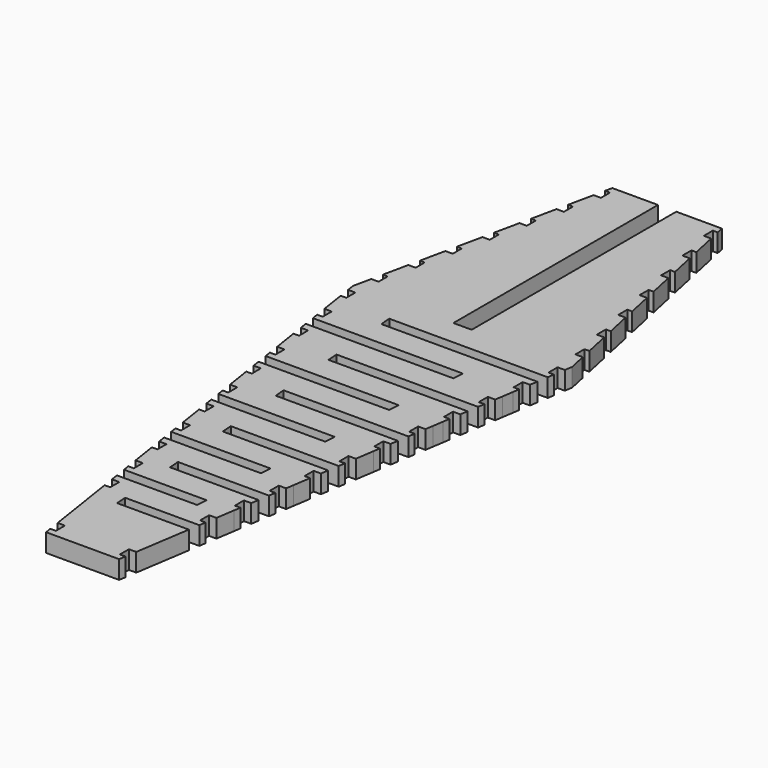
from build123d import *

# Parameters (mm, degrees)
F1_DEPTH = 5


with BuildPart() as f1:
    # F0 (on Top) → F1 (new body)
    with BuildSketch(Plane.XY):
        Polygon((-2.5, 100), (-15, 100), (-15.417857, 98.05), (-14.081429, 98.05), (-14.081429, 94.95), (-16.082143, 94.95), (-17.560715, 88.05), (-16.224286, 88.05), (-16.224286, 84.95), (-18.225, 84.95), (-19.703572, 78.05), (-18.367143, 78.05), (-18.367143, 74.95), (-20.367857, 74.95), (-21.846429, 68.05), (-20.51, 68.05), (-20.51, 64.95), (-22.510715, 64.95), (-23.989286, 58.05), (-22.652857, 58.05), (-22.652857, 54.95), (-24.653572, 54.95), (-26.132143, 48.05), (-24.795715, 48.05), (-24.795715, 44.95), (-26.796429, 44.95), (-28.275, 38.05), (-26.938572, 38.05), (-26.938572, 34.95), (-28.939286, 34.95), (-30, 30), (-29.678325, 27.909113), (-27.678325, 27.909113), (-27.678325, 24.809113), (-29.201402, 24.809113), (-28.139864, 17.909113), (-26.139864, 17.909113), (-26.139864, 14.809113), (-27.662941, 14.809113), (-27.384616, 13), (13.692307, 13), (13.461538, 10), (-26.923077, 10), (-26.601402, 7.909113), (-24.601402, 7.909113), (-24.601402, 4.809113), (-26.124479, 4.809113), (-25.062941, -2.090887), (-23.062941, -2.090887), (-23.062941, -5.190887), (-24.586018, -5.190887), (-24.307693, -7), (12.153846, -7), (11.923077, -10), (-23.846154, -10), (-23.524479, -12.090887), (-21.524479, -12.090887), (-21.524479, -15.190887), (-23.047556, -15.190887), (-21.986018, -22.090887), (-19.986018, -22.090887), (-19.986018, -25.190887), (-21.509094, -25.190887), (-21.230769, -27), (10.615384, -27), (10.384615, -30), (-20.769231, -30), (-20.447556, -32.090887), (-18.447556, -32.090887), (-18.447556, -35.190887), (-19.970633, -35.190887), (-18.909094, -42.090887), (-16.909094, -42.090887), (-16.909094, -45.190887), (-18.432171, -45.190887), (-18.153846, -47), (9.076923, -47), (8.846154, -50), (-17.692308, -50), (-17.370633, -52.090887), (-15.370633, -52.090887), (-15.370633, -55.190887), (-16.89371, -55.190887), (-15.832171, -62.090887), (-13.832171, -62.090887), (-13.832171, -65.190887), (-15.355248, -65.190887), (-15.076923, -67), (7.538461, -67), (7.307692, -70), (-14.615385, -70), (-14.29371, -72.090887), (-12.29371, -72.090887), (-12.29371, -75.190887), (-13.816787, -75.190887), (-10.755248, -95.090887), (-8.755248, -95.090887), (-8.755248, -98.190887), (-10.278325, -98.190887), (-10, -100), (0, -100), (10, -100), (10.278325, -98.190887), (8.755248, -98.190887), (8.755248, -95.090887), (10.755248, -95.090887), (13.076923, -80), (-6.538462, -80), (-6.769231, -77), (13.538461, -77), (13.816786, -75.190887), (12.293709, -75.190887), (12.293709, -72.090887), (14.293709, -72.090887), (15.076923, -67), (15.355248, -65.190887), (13.832171, -65.190887), (13.832171, -62.090887), (15.832171, -62.090887), (16.153846, -60), (-8.076923, -60), (-8.307693, -57), (16.615384, -57), (16.893709, -55.190887), (15.370632, -55.190887), (15.370632, -52.090887), (17.370632, -52.090887), (17.692307, -50), (18.432171, -45.190887), (16.909094, -45.190887), (16.909094, -42.090887), (18.909094, -42.090887), (19.230769, -40), (-9.615385, -40), (-9.846154, -37), (19.692307, -37), (19.970632, -35.190887), (18.447556, -35.190887), (18.447556, -32.090887), (20.447556, -32.090887), (21.230769, -27), (21.509094, -25.190887), (19.986017, -25.190887), (19.986017, -22.090887), (21.986017, -22.090887), (22.307692, -20), (-11.153846, -20), (-11.384616, -17), (22.769231, -17), (23.047556, -15.190887), (21.524479, -15.190887), (21.524479, -12.090887), (23.524479, -12.090887), (23.846154, -10), (24.307692, -7), (24.586017, -5.190887), (23.06294, -5.190887), (23.06294, -2.090887), (25.06294, -2.090887), (25.384615, 0), (-12.692308, 0), (-12.923077, 3), (25.846154, 3), (26.124479, 4.809113), (24.601402, 4.809113), (24.601402, 7.909113), (26.601402, 7.909113), (26.923077, 10), (27.384615, 13), (27.66294, 14.809113), (26.139863, 14.809113), (26.139863, 17.909113), (28.139863, 17.909113), (28.461538, 20), (-14.230769, 20), (-14.461539, 23), (28.923077, 23), (29.201402, 24.809113), (27.678325, 24.809113), (27.678325, 27.909113), (29.678325, 27.909113), (30, 30), (28.939285, 34.95), (26.938571, 34.95), (26.938571, 38.05), (28.275, 38.05), (26.796428, 44.95), (24.795714, 44.95), (24.795714, 48.05), (26.132143, 48.05), (24.653571, 54.95), (22.652857, 54.95), (22.652857, 58.05), (23.989285, 58.05), (22.510714, 64.95), (20.51, 64.95), (20.51, 68.05), (21.846428, 68.05), (20.367857, 74.95), (18.367143, 74.95), (18.367143, 78.05), (19.703571, 78.05), (18.225, 84.95), (16.224285, 84.95), (16.224285, 88.05), (17.560714, 88.05), (16.082143, 94.95), (14.081428, 94.95), (14.081428, 98.05), (15.417857, 98.05), (15, 100), (2.5, 100), (2.5, 30), (-2.5, 30), align=None)
    extrude(amount=F1_DEPTH)


solid = f1.part
